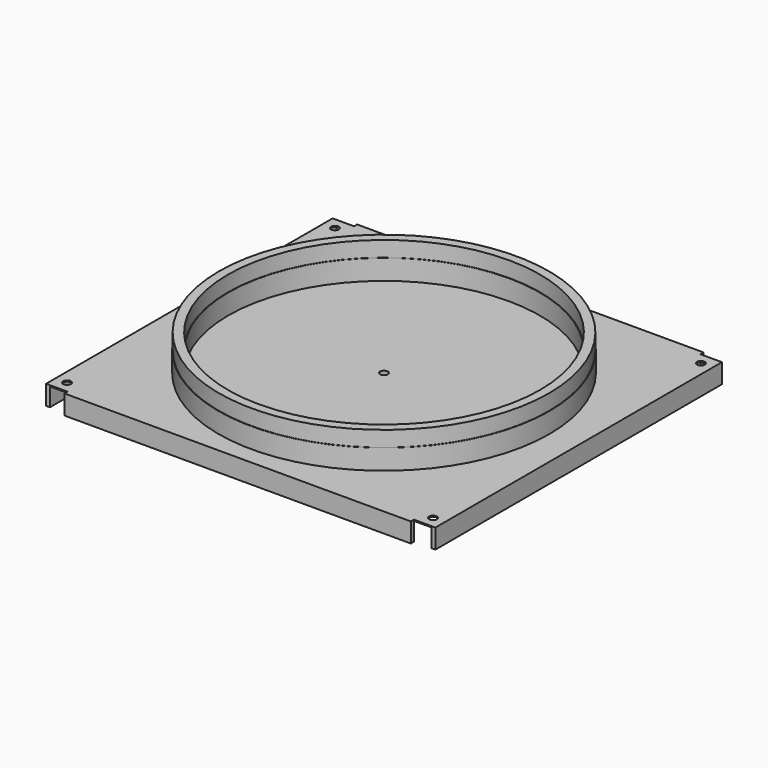
from build123d import *

# Parameters (mm, degrees)
F2_W     = 1000
F2_H     = 920
F2_R     = 10
F2_R_2   = 401
F3_DEPTH = 3
F4_W     = 890
F4_H     = 10
F4_W_2   = 10
F4_H_2   = 920
F5_DEPTH = 50
F6_R     = 15
F6_R_2   = 10
F7_DEPTH = 50


with BuildPart() as f1:
    # F0 (on Front) → F1 (revolve)
    with BuildSketch(Plane.XZ):
        Polygon((-425, 3), (-400, 3), (-400, 55), (-401, 55), (-401, 95), (-424, 95), (-424, 55), (-425, 55), align=None)
        Polygon((-10, 3), (-400, 3), (-425, 3), (-425, 0), (-10, 0), align=None)
    revolve(axis=Axis((0, 0, 187.921241), (0, 0, -1)))

    # F2 (on Top) → F3 (join)
    with BuildSketch(Plane.XY):
        Rectangle(F2_W, F2_H)
        with Locations((-470, -430)):
            Circle(F2_R, mode=Mode.SUBTRACT)
        with Locations((470, -430)):
            Circle(F2_R, mode=Mode.SUBTRACT)
        with Locations((-470, 430)):
            Circle(F2_R, mode=Mode.SUBTRACT)
        Circle(F2_R_2, mode=Mode.SUBTRACT)
        with Locations((470, 430)):
            Circle(F2_R, mode=Mode.SUBTRACT)
    extrude(amount=F3_DEPTH)

    # F4 (on face) → F5 (join)
    with BuildSketch(Plane.XY.offset(3)):
        with Locations((0, -465)):
            Rectangle(F4_W, F4_H)
        with Locations((-495, 0)):
            Rectangle(F4_W_2, F4_H_2)
        with Locations((0, 465)):
            Rectangle(F4_W, F4_H)
        with Locations((495, 0)):
            Rectangle(F4_W_2, F4_H_2)
    extrude(amount=-F5_DEPTH)

    # F6 (on face) → F7 (join)
    with BuildSketch(Plane(origin=(0, 0, 0), x_dir=(1, 0, 0), z_dir=(0, 0, -1))):
        Circle(F6_R)
        Circle(F6_R_2, mode=Mode.SUBTRACT)
    extrude(amount=F7_DEPTH)


solid = f1.part
